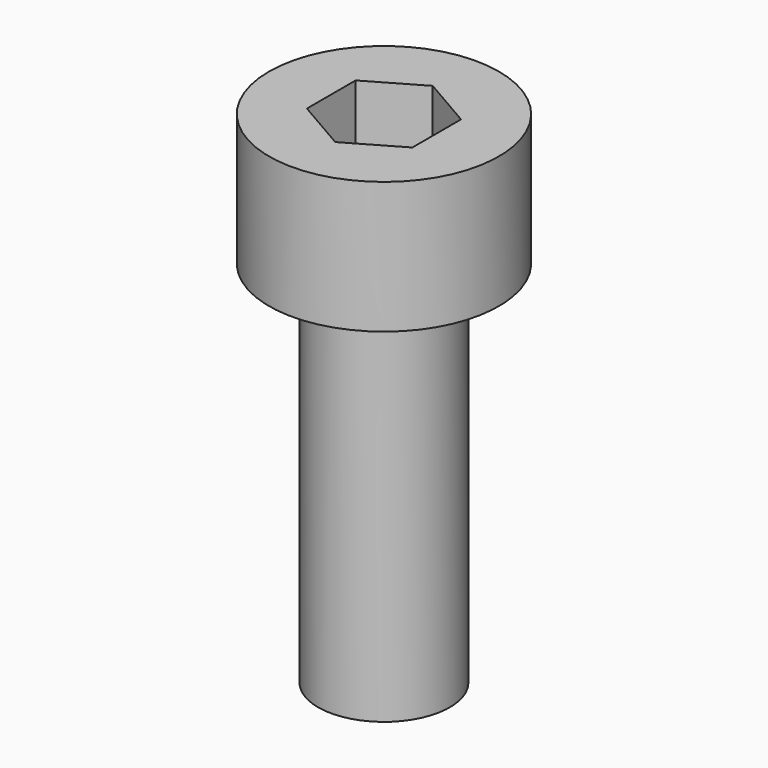
from build123d import *

# Parameters (mm, degrees)
CYLINDER013_R                      = 2.5
CYLINDER013_DEPTH                  = 19
CYLINDER012_R                      = 4.36
CYLINDER012_DEPTH                  = 5
FUSION001018017017_PLACEMENT_ANGLE = 180
POCKET002018_DEPTH                 = 2.5


with BuildPart() as cylinder013:
    # Cylinder013 → Cylinder013 (new body)
    with BuildSketch(Plane.XY):
        Circle(CYLINDER013_R)
    extrude(amount=CYLINDER013_DEPTH)


with BuildPart() as obj1:
    # Cylinder012 → Cylinder012 (new body)
    with BuildSketch(Plane.XY):
        Circle(CYLINDER012_R)
    extrude(amount=CYLINDER012_DEPTH)

    # Fusion001018017017: union Cylinder013
    add(cylinder013.part)


with BuildPart() as obj1_1:
    # Fusion001018017017 placement: moved
    add(obj1.part.rotate(Axis((0, 0, 0), (0, 1, 0)), FUSION001018017017_PLACEMENT_ANGLE))

    # Sketch019 → Pocket002018 (cut)
    with BuildSketch(Plane(origin=(0, 0, 0), x_dir=(-1, 0, 0), z_dir=(0, 0, 1))):
        Polygon((2, -1.154701), (2, 1.154701), (0, 2.309401), (-2, 1.154701), (-2, -1.154701), (0, -2.309401), align=None)
    extrude(amount=-POCKET002018_DEPTH, mode=Mode.SUBTRACT)


solid = obj1_1.part
